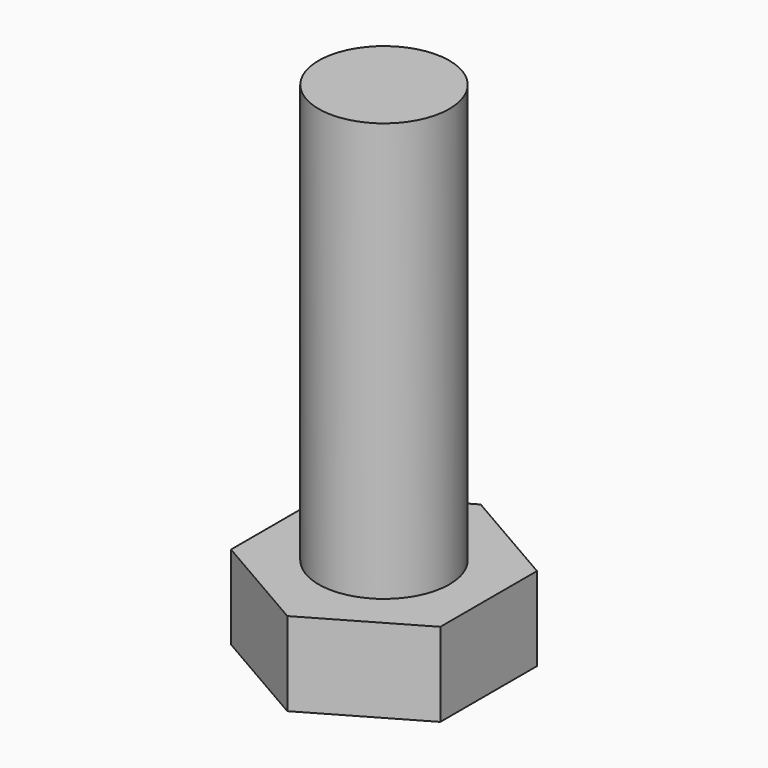
from build123d import *

# Parameters (mm, degrees)
F0_R     = 3.96875
F1_DEPTH = 5.08
F2_DEPTH = 30.48


with BuildPart() as f1:
    # F0 (on Top) → F1 (new body)
    with BuildSketch(Plane.XY):
        Polygon((6.35, -3.666174), (6.35, 3.666174), (0, 7.332348), (-6.35, 3.666174), (-6.35, -3.666174), (0, -7.332348), align=None)
        Circle(F0_R, mode=Mode.SUBTRACT)
    extrude(amount=F1_DEPTH)

    # F0 (on Top) → F2 (join)
    with BuildSketch(Plane.XY):
        Circle(F0_R)
    extrude(amount=F2_DEPTH)


solid = f1.part
